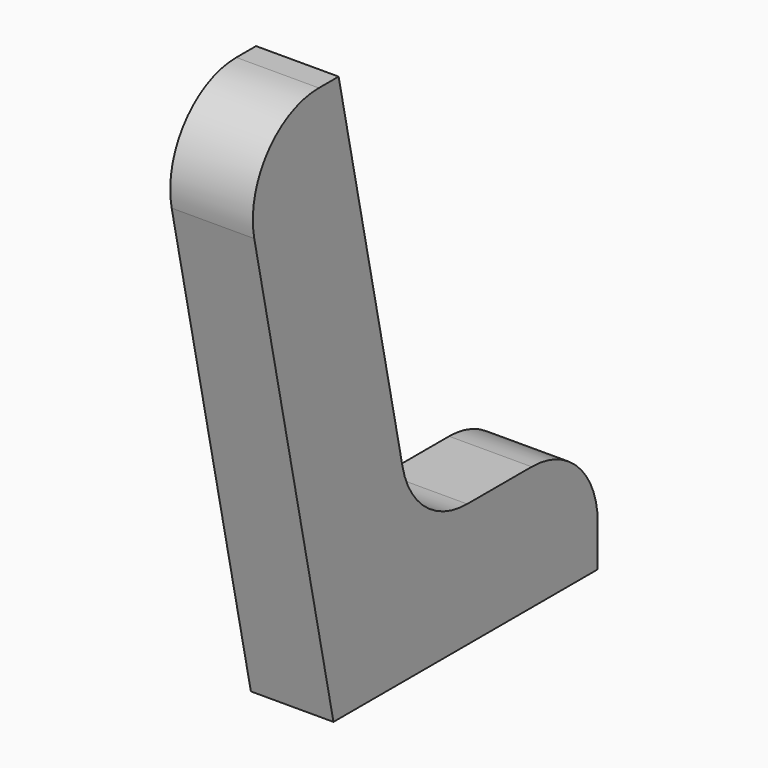
from build123d import *

# Parameters (mm, degrees)
F1_DEPTH = 25.4


with BuildPart() as f1:
    # F0 (on Right) → F1 (new body)
    with BuildSketch(Plane.YZ):
        with BuildLine():
            ThreePointArc((-10.843395, 99.24675), (-30.582903, 89.831488), (-35.688344, 68.565793))
            Line((-35.688344, 68.565793), (-5.243084, -74.667893))
            Line((-5.243084, -74.667893), (96.356916, -74.667893))
            Line((96.356916, -74.667893), (96.356916, -61.967893))
            ThreePointArc((96.356916, -61.967893), (88.917428, -44.007381), (70.956916, -36.567893))
            Line((70.956916, -36.567893), (46.178202, -36.567893))
            ThreePointArc((46.178202, -36.567893), (30.193464, -30.907401), (21.333253, -16.44885))
            Line((21.333253, -16.44885), (-3.258606, 99.24675))
            Line((-3.258606, 99.24675), (-10.843395, 99.24675))
        make_face()
    extrude(amount=F1_DEPTH)


solid = f1.part
